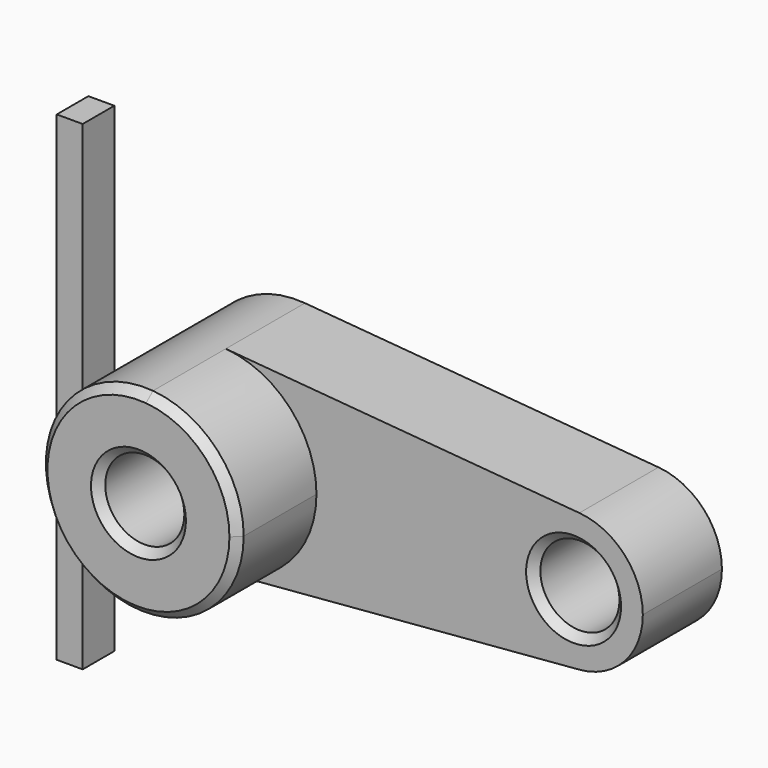
from build123d import *

# Parameters (mm, degrees)
F0_R     = 10
F1_DEPTH = 25
F2_DEPTH = 50
F3_SIZE  = 2
F4_W     = 6.558575
F4_H     = 121.377379
F5_DEPTH = 10


with BuildPart() as f1:
    # F0 (on Front) → F1 (new body)
    with BuildSketch(Plane.XZ):
        with BuildLine():
            ThreePointArc((2.083333, -24.913043), (18.399502, -16.92508), (25, 0))
            ThreePointArc((25, 0), (18.399502, 16.92508), (2.083333, 24.913043))
            ThreePointArc((2.083333, 24.913043), (-25, 0), (2.083333, -24.913043))
        make_face()
        Circle(F0_R, mode=Mode.SUBTRACT)
        with BuildLine():
            ThreePointArc((2.083333, 24.913043), (18.399502, 16.92508), (25, 0))
            ThreePointArc((25, 0), (18.399502, -16.92508), (2.083333, -24.913043))
            Line((2.083333, -24.913043), (91.458333, -17.43913))
            ThreePointArc((91.458333, -17.43913), (72.5, 0), (91.458333, 17.43913))
            Line((91.458333, 17.43913), (2.083333, 24.913043))
        make_face()
        with BuildLine():
            ThreePointArc((107.5, 0), (102.879651, 11.847556), (91.458333, 17.43913))
            ThreePointArc((91.458333, 17.43913), (72.5, 0), (91.458333, -17.43913))
            ThreePointArc((91.458333, -17.43913), (102.879651, -11.847556), (107.5, 0))
        make_face()
        with Locations((90, 0)):
            Circle(F0_R, mode=Mode.SUBTRACT)
    extrude(amount=F1_DEPTH)

    # F0 (on Front) → F2 (join)
    with BuildSketch(Plane.XZ):
        with BuildLine():
            ThreePointArc((2.083333, -24.913043), (18.399502, -16.92508), (25, 0))
            ThreePointArc((25, 0), (18.399502, 16.92508), (2.083333, 24.913043))
            ThreePointArc((2.083333, 24.913043), (-25, 0), (2.083333, -24.913043))
        make_face()
        Circle(F0_R, mode=Mode.SUBTRACT)
    extrude(amount=F2_DEPTH)

    # F3
    f3_edges = [f1.edges().sort_by_distance(p)[0] for p in [
        (-2.083333, -50, 24.913043),
        (-10, -50, 0),
        (80, -25, 0),
    ]]
    chamfer(f3_edges, length=F3_SIZE)


with BuildPart() as f5:
    # F4 (on Front) → F5 (new body)
    with BuildSketch(Plane.XZ):
        with Locations((-49.37948, -7.520497)):
            Rectangle(F4_W, F4_H)
    extrude(amount=F5_DEPTH)


solid = Compound([f1.part, f5.part])
